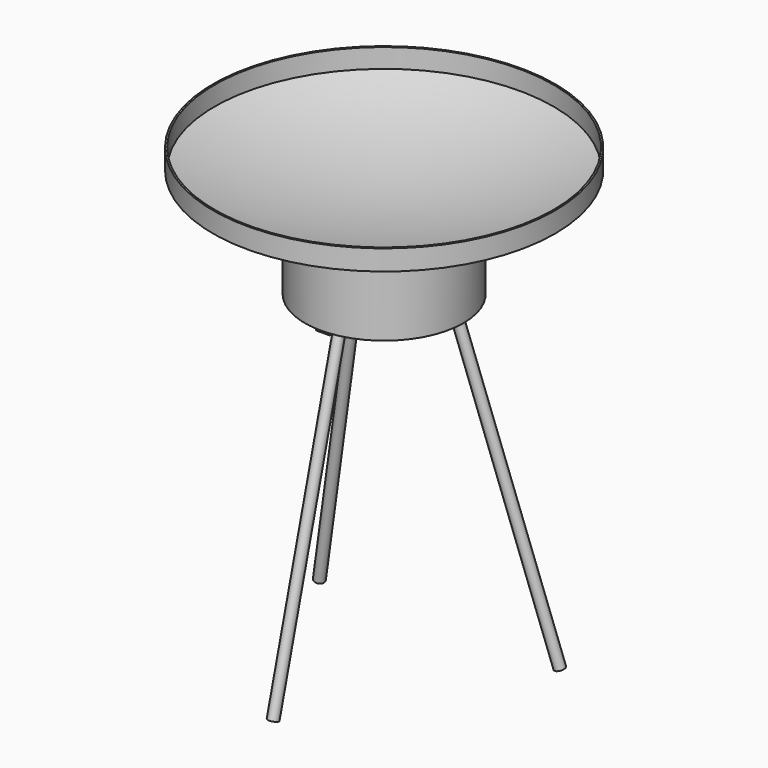
from build123d import *

# Parameters (mm, degrees)
F4_R      = 148.4015539619
F4_R_2    = 143.6093647966
F5_DEPTH  = 152.4
F7_DEPTH  = 6.35
F10_COUNT = 3


with BuildPart() as f1:
    # F0 (on Front) → F1 (revolve)
    with BuildSketch(Plane.XZ):
        with BuildLine():
            Line((-320.04, -54.6610745397), (-320.04, -57.8360745397))
            ThreePointArc((-320.04, -57.8360745397), (-157.4280284864, -43.2608945577), (0, 0))
            Line((0, 0), (0, 38.1))
            Line((0, 38.1), (-3.175, 38.1))
            Line((-3.175, 38.1), (-3.175, 2.2059370269))
            ThreePointArc((-3.175, 2.2059370269), (-159.0762733179, -40.3316533657), (-320.04, -54.6610745397))
        make_face()
    revolve(axis=Axis((-320.04, 0, -56.2485745397), (0, 0, 1)))


with BuildPart() as f5:
    # F4 (on offset) → F5 (new body)
    with BuildSketch(Plane.XY.offset(-50.8)):
        with Locations((-320, 0)):
            Circle(F4_R)
        with Locations((-320, 0)):
            Circle(F4_R_2, mode=Mode.SUBTRACT)
    extrude(amount=-F5_DEPTH)


with BuildPart() as f7:
    # F6 (on face) → F7 (new body)
    with BuildSketch(Plane(origin=(0, 0, -203.2), x_dir=(1, 0, 0), z_dir=(0, 0, -1))):
        Polygon((-326.35, 10.9985226281), (-320, 0), (-313.65, 10.9985226281), (-307.3, 7.3323484187), (-307.3, 143.0467044614), (-332.7, 143.0467044614), (-332.7, 7.3323484187), align=None)
    extrude(amount=F7_DEPTH)


with BuildPart() as f7b:
    # F6 (on face) → F7, piece 2 (new body)
    with BuildSketch(Plane(origin=(0, 0, -203.2), x_dir=(1, 0, 0), z_dir=(0, 0, -1))):
        Polygon((-320, 0), (-332.7, 0), (-332.7, 7.3323484187), (-450.2320799912, -60.5248296027), (-437.5320799912, -82.5218748588), (-320, -14.6646968374), (-326.35, -10.9985226281), align=None)
    extrude(amount=F7_DEPTH)


with BuildPart() as f7c:
    # F6 (on face) → F7, piece 3 (new body)
    with BuildSketch(Plane(origin=(0, 0, -203.2), x_dir=(1, 0, 0), z_dir=(0, 0, -1))):
        Polygon((-307.3, 0), (-320, 0), (-313.65, -10.9985226281), (-320, -14.6646968374), (-202.4679200088, -82.5218748588), (-189.7679200088, -60.5248296027), (-307.3, 7.3323484187), align=None)
    extrude(amount=F7_DEPTH)


with BuildPart() as f9:
    # F8 (on offset) → F9 (revolve)
    with BuildSketch(Plane.YZ.offset(-320)):
        Polygon((-259.3760898945, -798.3783837058), (-101.6, -209.55), (-111.016125046, -207.8896831007), (-268.7922149405, -796.7180668065), align=None)
    revolve(axis=Axis((-320, -180.4880449472, -503.9641918529), (0, -0.2588190451, -0.9659258263)))


with BuildPart() as f10_1:
    # F10: instance of F9
    add(f9.part.rotate(Axis((-320.04, 0, 0), (0, 0, 1)), 1 * 360 / F10_COUNT))


with BuildPart() as f10_2:
    # F10: instance of F9
    add(f9.part.rotate(Axis((-320.04, 0, 0), (0, 0, 1)), 2 * 360 / F10_COUNT))


solid = Compound([f1.part, f5.part, f7.part, f7b.part, f7c.part, f9.part, f10_1.part, f10_2.part])
